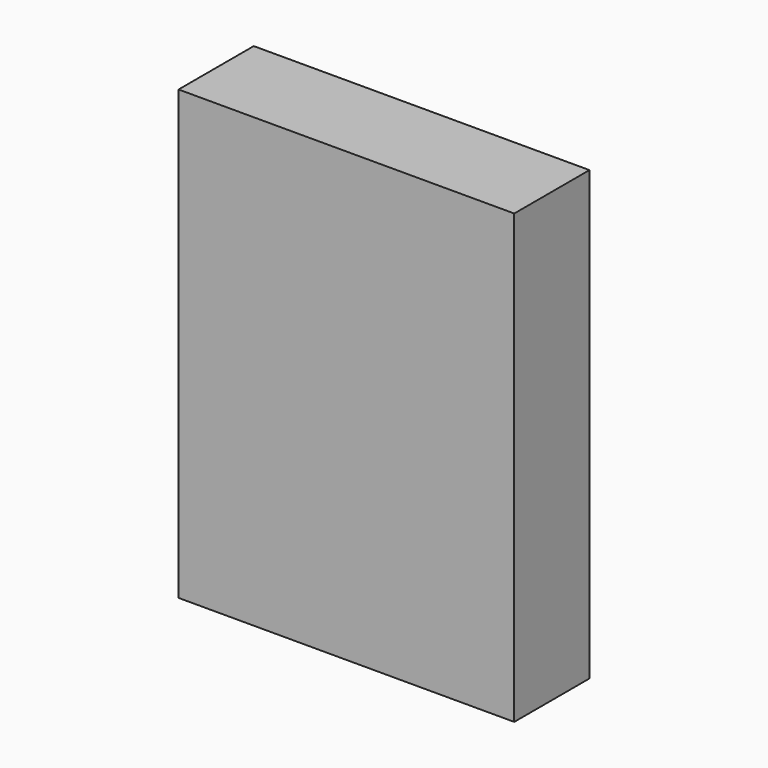
from build123d import *

# Parameters (mm, degrees)
F0_W           = 75
F0_H           = 100
F1_DEPTH       = 21
F4_D           = 5
F4_DEPTH       = 20
F4_TIP         = 1.5021515476
F4_ON_F3_D     = 5
F4_ON_F3_DEPTH = 20
F4_ON_F3_TIP   = 1.5021515476


with BuildPart() as f1:
    # F0 (on Front) → F1 (new body)
    with BuildSketch(Plane.XZ):
        with Locations((37.5, 50)):
            Rectangle(F0_W, F0_H)
    extrude(amount=F1_DEPTH)

    # F4
    with Locations(Plane(origin=(0, 0, 0), x_dir=(0, -1, 0), z_dir=(-1, 0, 0))):
        with Locations((10.5, 15), (10.5, 85)):
            Hole(F4_D / 2, depth=F4_DEPTH)
            with Locations((0, 0, -(F4_DEPTH + F4_TIP / 2))):  # 118° drill point
                Cone(0, F4_D / 2, F4_TIP, mode=Mode.SUBTRACT)

    # F4 on F3
    with Locations(Plane(origin=(0, 0, 0), x_dir=(1, 0, 0), z_dir=(0, 0, -1))):
        with Locations((15, 10.5), (60, 10.5)):
            Hole(F4_ON_F3_D / 2, depth=F4_ON_F3_DEPTH)
            with Locations((0, 0, -(F4_ON_F3_DEPTH + F4_ON_F3_TIP / 2))):  # 118° drill point
                Cone(0, F4_ON_F3_D / 2, F4_ON_F3_TIP, mode=Mode.SUBTRACT)


solid = f1.part
